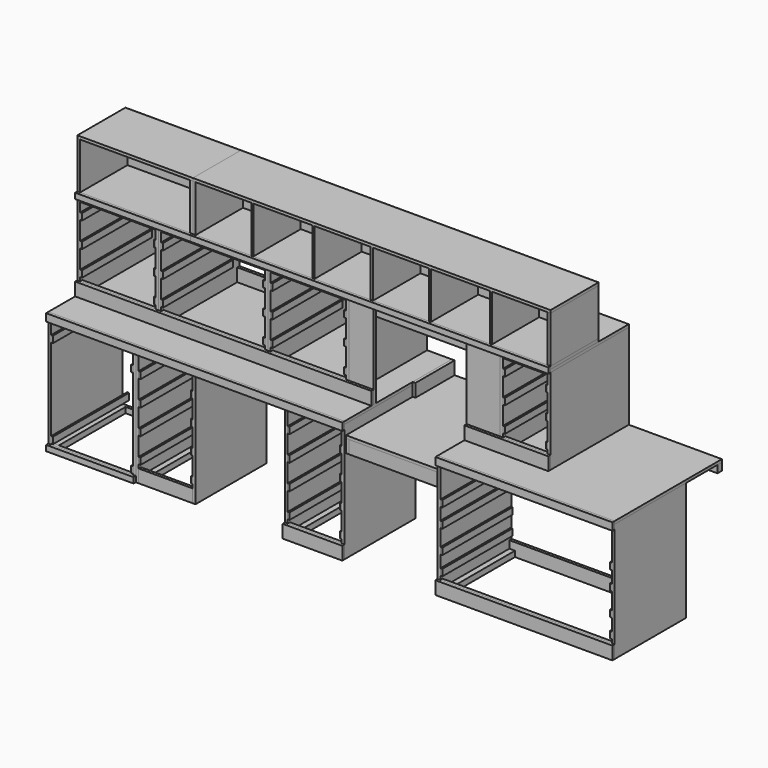
from build123d import *

# Parameters (mm, degrees)
F0_W      = 19.05
F0_H      = 606.425
F1_DEPTH  = 809.625
F2_W      = 19.05
F2_H      = 606.425
F3_DEPTH  = 809.625
F4_W      = 19.05
F4_H      = 139.7
F5_DEPTH  = 1168.4
F4_H_2    = 88.9
F4_W_2    = 88.9
F4_H_3    = 19.05
F6_W      = 139.7
F6_H      = 19.05
F7_DEPTH  = 368.3
F6_W_2    = 19.05
F6_H_2    = 88.9
F8_W      = 139.7
F8_H      = 19.05
F9_DEPTH  = 558.8
F8_W_2    = 19.05
F8_H_2    = 38.1
F10_W     = 19.05
F10_H     = 63.5
F11_DEPTH = 1168.4
F12_W     = 1206.5
F12_H     = 914.4
F13_DEPTH = 19.05
F12_W_2   = 2019.3
F14_W     = 38.1
F14_H     = 50.8
F15_DEPTH = 1206.5
F16_W     = 38.1
F16_H     = 50.8
F17_DEPTH = 2019.3
F19_W     = 635
F19_H     = 901.7
F20_DEPTH = 19.05
F21_W     = 19.05
F21_H     = 593.725
F22_DEPTH = 88.9
F23_W     = 596.9
F23_H     = 19.05
F24_DEPTH = 88.9
F25_R     = 50.8
F26_DEPTH = 19.05
F27_W     = 19.05
F27_H     = 333.375
F28_DEPTH = 88.9
F29_W     = 139.7
F29_H     = 19.05
F30_DEPTH = 368.3
F29_W_2   = 19.05
F29_H_2   = 88.9
F31_W     = 19.05
F31_H     = 666.75
F32_DEPTH = 584.2
F33_W     = 19.05
F33_H     = 666.75
F34_DEPTH = 584.2
F35_W     = 19.05
F35_H     = 139.7
F36_DEPTH = 514.35
F35_W_2   = 139.7
F35_H_2   = 19.05
F35_H_3   = 88.9
F37_W     = 19.05
F37_H     = 139.7
F38_DEPTH = 708.025
F37_W_2   = 139.7
F37_H_2   = 19.05
F37_H_3   = 88.9
F39_W     = 139.7
F39_H     = 19.05
F40_DEPTH = 514.35
F39_W_2   = 19.05
F39_H_2   = 88.9
F39_H_3   = 139.7
F41_W     = 139.7
F41_H     = 19.05
F42_DEPTH = 304.8
F41_W_2   = 19.05
F41_H_2   = 139.7
F41_H_3   = 88.9
F43_W     = 168.275
F43_H     = 19.05
F44_DEPTH = 584.2
F43_W_2   = 228.6
F45_W     = 19.05
F45_H     = 63.5
F46_DEPTH = 1031.875
F47_W     = 2019.3
F47_H     = 19.05
F48_DEPTH = 88.9
F47_W_2   = 571.5
F49_W     = 12.7
F49_H     = 44.958
F50_DEPTH = 596.9
F51_W     = 12.7
F51_H     = 44.958
F52_DEPTH = 647.7
F53_W     = 12.7
F53_H     = 44.958
F54_DEPTH = 596.9
F55_W     = 38.1
F55_H     = 38.1
F56_DEPTH = 568.325
F57_W     = 2019.3
F57_H     = 50.8
F58_DEPTH = 19.05
F57_W_2   = 1206.5
F57_W_3   = 596.9
F57_H_2   = 38.1
F57_W_4   = 406.4
F57_H_3   = 88.9
F59_W     = 1298.575
F59_H     = 666.75
F60_DEPTH = 19.05
F61_W     = 1927.225
F61_H     = 666.75
F62_DEPTH = 19.05
F63_W     = 2438.4
F63_H     = 403.225
F64_DEPTH = 19.05
F65_W     = 19.05
F65_H     = 403.225
F66_DEPTH = 317.5
F65_W_2   = 12.7
F67_W     = 2438.4
F67_H     = 403.225
F68_DEPTH = 19.05
F69_W     = 787.4
F69_H     = 403.225
F70_DEPTH = 19.05
F71_W     = 19.05
F71_H     = 403.225
F72_DEPTH = 317.5
F73_W     = 787.4
F73_H     = 403.225
F74_DEPTH = 19.05
F75_W     = 2438.4
F75_H     = 355.6
F76_DEPTH = 6.35
F77_W     = 787.4
F77_H     = 355.6
F78_DEPTH = 6.35
F79_W     = 787.4
F79_H     = 38.1
F81_DEPTH = 19.05
F80_W     = 2438.4
F80_H     = 38.1
F82_DEPTH = 19.05


with BuildPart() as f1:
    # F0 (on Top) → F1 (new body)
    with BuildSketch(Plane.XY):
        with Locations((-3851.275, 303.2125)):
            Rectangle(F0_W, F0_H)
    extrude(amount=-F1_DEPTH)


with BuildPart() as f1b:
    # F0 (on Top) → F1, piece 2 (new body)
    with BuildSketch(Plane.XY):
        with Locations((-3273.425, 303.2125)):
            Rectangle(F0_W, F0_H)
    extrude(amount=-F1_DEPTH)


with BuildPart() as f1c:
    # F0 (on Top) → F1, piece 3 (new body)
    with BuildSketch(Plane.XY):
        with Locations((-1196.975, 303.2125)):
            Rectangle(F0_W, F0_H)
    extrude(amount=-F1_DEPTH)


with BuildPart() as f1d:
    # F0 (on Top) → F1, piece 4 (new body)
    with BuildSketch(Plane.XY):
        with Locations((-1851.025, 303.2125)):
            Rectangle(F0_W, F0_H)
    extrude(amount=-F1_DEPTH)


with BuildPart() as f1e:
    # F0 (on Top) → F1, piece 5 (new body)
    with BuildSketch(Plane.XY):
        with Locations((-2238.375, 303.2125)):
            Rectangle(F0_W, F0_H)
    extrude(amount=-F1_DEPTH)


with BuildPart() as f1f:
    # F0 (on Top) → F1, piece 6 (new body)
    with BuildSketch(Plane.XY):
        with Locations((-9.525, 303.2125)):
            Rectangle(F0_W, F0_H)
    extrude(amount=-F1_DEPTH)


with BuildPart() as f3:
    # F2 (on Top) → F3 (new body, through all)
    with BuildSketch(Plane.XY):
        with Locations((-2867.025, 303.2125)):
            Rectangle(F2_W, F2_H)
    extrude(amount=-F3_DEPTH)


with BuildPart() as f3b:
    # F2 (on Top) → F3, piece 2 (new body, through all)
    with BuildSketch(Plane.XY):
        with Locations((-3254.375, 303.2125)):
            Rectangle(F2_W, F2_H)
    extrude(amount=-F3_DEPTH)


with BuildPart() as f5:
    # F4 (on face) → F5 (new body, through all)
    with BuildSketch(Plane(origin=(-19.05, 0, 0), x_dir=(0, -1, 0), z_dir=(-1, 0, 0))):
        with Locations((-596.9, -69.85)):
            Rectangle(F4_W, F4_H)
    extrude(amount=F5_DEPTH)


with BuildPart() as f5b:
    # F4 (on face) → F5, piece 2 (new body, through all)
    with BuildSketch(Plane(origin=(-19.05, 0, 0), x_dir=(0, -1, 0), z_dir=(-1, 0, 0))):
        with Locations((-596.9, -765.175)):
            Rectangle(F4_W, F4_H_2)
    extrude(amount=F5_DEPTH)


with BuildPart() as f5c:
    # F4 (on face) → F5, piece 3 (new body, through all)
    with BuildSketch(Plane(origin=(-19.05, 0, 0), x_dir=(0, -1, 0), z_dir=(-1, 0, 0))):
        with Locations((-44.45, -9.525)):
            Rectangle(F4_W_2, F4_H_3)
    extrude(amount=F5_DEPTH)


with BuildPart() as f5d:
    # F4 (on face) → F5, piece 4 (new body, through all)
    with BuildSketch(Plane(origin=(-19.05, 0, 0), x_dir=(0, -1, 0), z_dir=(-1, 0, 0))):
        with Locations((-9.525, -765.175)):
            Rectangle(F4_W, F4_H_2)
    extrude(amount=F5_DEPTH)


with BuildPart() as f7:
    # F6 (on face) → F7 (new body, through all)
    with BuildSketch(Plane(origin=(-1860.55, 0, 0), x_dir=(0, -1, 0), z_dir=(-1, 0, 0))):
        with Locations((-536.575, -9.525)):
            Rectangle(F6_W, F6_H)
    extrude(amount=F7_DEPTH)


with BuildPart() as f7b:
    # F6 (on face) → F7, piece 2 (new body, through all)
    with BuildSketch(Plane(origin=(-1860.55, 0, 0), x_dir=(0, -1, 0), z_dir=(-1, 0, 0))):
        with Locations((-596.9, -765.175)):
            Rectangle(F6_W_2, F6_H_2)
    extrude(amount=F7_DEPTH)


with BuildPart() as f7c:
    # F6 (on face) → F7, piece 3 (new body, through all)
    with BuildSketch(Plane(origin=(-1860.55, 0, 0), x_dir=(0, -1, 0), z_dir=(-1, 0, 0))):
        with Locations((-69.85, -9.525)):
            Rectangle(F6_W, F6_H)
    extrude(amount=F7_DEPTH)


with BuildPart() as f7d:
    # F6 (on face) → F7, piece 4 (new body, through all)
    with BuildSketch(Plane(origin=(-1860.55, 0, 0), x_dir=(0, -1, 0), z_dir=(-1, 0, 0))):
        with Locations((-9.525, -765.175)):
            Rectangle(F6_W_2, F6_H_2)
    extrude(amount=F7_DEPTH)


with BuildPart() as f9:
    # F8 (on face) → F9 (new body, through all)
    with BuildSketch(Plane(origin=(-3282.95, 0, 0), x_dir=(0, -1, 0), z_dir=(-1, 0, 0))):
        with Locations((-536.575, -9.525)):
            Rectangle(F8_W, F8_H)
    extrude(amount=F9_DEPTH)


with BuildPart() as f9b:
    # F8 (on face) → F9, piece 2 (new body, through all)
    with BuildSketch(Plane(origin=(-3282.95, 0, 0), x_dir=(0, -1, 0), z_dir=(-1, 0, 0))):
        with Locations((-596.9, -790.575)):
            Rectangle(F8_W_2, F8_H_2)
    extrude(amount=F9_DEPTH)


with BuildPart() as f9c:
    # F8 (on face) → F9, piece 3 (new body, through all)
    with BuildSketch(Plane(origin=(-3282.95, 0, 0), x_dir=(0, -1, 0), z_dir=(-1, 0, 0))):
        with Locations((-69.85, -9.525)):
            Rectangle(F8_W, F8_H)
    extrude(amount=F9_DEPTH)


with BuildPart() as f9d:
    # F8 (on face) → F9, piece 4 (new body, through all)
    with BuildSketch(Plane(origin=(-3282.95, 0, 0), x_dir=(0, -1, 0), z_dir=(-1, 0, 0))):
        with Locations((-9.525, -790.575)):
            Rectangle(F8_W_2, F8_H_2)
    extrude(amount=F9_DEPTH)


with BuildPart() as f11:
    # F10 (on face) → F11 (new body, through all)
    with BuildSketch(Plane(origin=(-19.05, 0, 0), x_dir=(0, -1, 0), z_dir=(-1, 0, 0))):
        with Locations((-374.65, -31.75)):
            Rectangle(F10_W, F10_H)
    extrude(amount=F11_DEPTH)


with BuildPart() as f11b:
    # F10 (on face) → F11, piece 2 (new body, through all)
    with BuildSketch(Plane(origin=(-19.05, 0, 0), x_dir=(0, -1, 0), z_dir=(-1, 0, 0))):
        with Locations((-98.425, -31.75)):
            Rectangle(F10_W, F10_H)
    extrude(amount=F11_DEPTH)


with BuildPart() as f13:
    # F12 (on Top) → F13 (new body)
    with BuildSketch(Plane.XY):
        with Locations((-603.25, 457.2)):
            Rectangle(F12_W, F12_H)
    extrude(amount=F13_DEPTH)


with BuildPart() as f13b:
    # F12 (on Top) → F13, piece 2 (new body)
    with BuildSketch(Plane.XY):
        with Locations((-2851.15, 457.2)):
            Rectangle(F12_W_2, F12_H)
    extrude(amount=F13_DEPTH)


with BuildPart() as f15:
    # F14 (on face) → F15 (new body, through all)
    with BuildSketch(Plane.YZ):
        with Locations((895.35, -25.4)):
            Rectangle(F14_W, F14_H)
    extrude(amount=-F15_DEPTH)


with BuildPart() as f17:
    # F16 (on face) → F17 (new body, through all)
    with BuildSketch(Plane.YZ.offset(-1841.5)):
        with Locations((895.35, -25.4)):
            Rectangle(F16_W, F16_H)
    extrude(amount=-F17_DEPTH)


with BuildPart() as f20:
    # F19 (on offset) → F20 (new body)
    with BuildSketch(Plane.XY.offset(-69.85)):
        with Locations((-1524, 463.55)):
            Rectangle(F19_W, F19_H)
    extrude(amount=-F20_DEPTH)

    # F25 (on face) → F26 (cut, through all)
    with BuildSketch(Plane.XY.offset(-69.85)):
        with Locations((-1524, 825.5)):
            Circle(F25_R)
    extrude(amount=-F26_DEPTH, mode=Mode.SUBTRACT)


with BuildPart() as f22:
    # F21 (on face) → F22 (new body)
    with BuildSketch(Plane(origin=(0, 0, -88.9), x_dir=(1, 0, 0), z_dir=(0, 0, -1))):
        with Locations((-1831.975, -309.5625)):
            Rectangle(F21_W, F21_H)
    extrude(amount=F22_DEPTH)


with BuildPart() as f22b:
    # F21 (on face) → F22, piece 2 (new body)
    with BuildSketch(Plane(origin=(0, 0, -88.9), x_dir=(1, 0, 0), z_dir=(0, 0, -1))):
        with Locations((-1216.025, -309.5625)):
            Rectangle(F21_W, F21_H)
    extrude(amount=F22_DEPTH)


with BuildPart() as f24:
    # F23 (on face) → F24 (new body, through all)
    with BuildSketch(Plane(origin=(0, 0, -88.9), x_dir=(1, 0, 0), z_dir=(0, 0, -1))):
        with Locations((-1524, -22.225)):
            Rectangle(F23_W, F23_H)
    extrude(amount=F24_DEPTH)


with BuildPart() as f24b:
    # F23 (on face) → F24, piece 2 (new body, through all)
    with BuildSketch(Plane(origin=(0, 0, -88.9), x_dir=(1, 0, 0), z_dir=(0, 0, -1))):
        with Locations((-1524, -596.9)):
            Rectangle(F23_W, F23_H)
    extrude(amount=F24_DEPTH)


with BuildPart() as f28:
    # F27 (on face) → F28 (new body, through all)
    with BuildSketch(Plane.XY.offset(-69.85)):
        with Locations((-1831.975, 747.7125)):
            Rectangle(F27_W, F27_H)
    extrude(amount=F28_DEPTH)


with BuildPart() as f28b:
    # F27 (on face) → F28, piece 2 (new body, through all)
    with BuildSketch(Plane.XY.offset(-69.85)):
        with Locations((-1216.025, 747.7125)):
            Rectangle(F27_W, F27_H)
    extrude(amount=F28_DEPTH)


with BuildPart() as f30:
    # F29 (on face) → F30 (new body, through all)
    with BuildSketch(Plane(origin=(-2876.55, 0, 0), x_dir=(0, -1, 0), z_dir=(-1, 0, 0))):
        with Locations((-536.575, -9.525)):
            Rectangle(F29_W, F29_H)
    extrude(amount=F30_DEPTH)


with BuildPart() as f30b:
    # F29 (on face) → F30, piece 2 (new body, through all)
    with BuildSketch(Plane(origin=(-2876.55, 0, 0), x_dir=(0, -1, 0), z_dir=(-1, 0, 0))):
        with Locations((-596.9, -765.175)):
            Rectangle(F29_W_2, F29_H_2)
    extrude(amount=F30_DEPTH)


with BuildPart() as f30c:
    # F29 (on face) → F30, piece 3 (new body, through all)
    with BuildSketch(Plane(origin=(-2876.55, 0, 0), x_dir=(0, -1, 0), z_dir=(-1, 0, 0))):
        with Locations((-69.85, -9.525)):
            Rectangle(F29_W, F29_H)
    extrude(amount=F30_DEPTH)


with BuildPart() as f30d:
    # F29 (on face) → F30, piece 4 (new body, through all)
    with BuildSketch(Plane(origin=(-2876.55, 0, 0), x_dir=(0, -1, 0), z_dir=(-1, 0, 0))):
        with Locations((-9.525, -765.175)):
            Rectangle(F29_W_2, F29_H_2)
    extrude(amount=F30_DEPTH)


with BuildPart() as f32:
    # F31 (on face) → F32 (new body)
    with BuildSketch(Plane.XY.offset(19.05)):
        with Locations((-2019.3, 581.025)):
            Rectangle(F31_W, F31_H)
    extrude(amount=F32_DEPTH)


with BuildPart() as f32b:
    # F31 (on face) → F32, piece 2 (new body)
    with BuildSketch(Plane.XY.offset(19.05)):
        with Locations((-3851.275, 581.025)):
            Rectangle(F31_W, F31_H)
    extrude(amount=F32_DEPTH)


with BuildPart() as f32c:
    # F31 (on face) → F32, piece 3 (new body)
    with BuildSketch(Plane.XY.offset(19.05)):
        with Locations((-2552.7, 581.025)):
            Rectangle(F31_W, F31_H)
    extrude(amount=F32_DEPTH)


with BuildPart() as f32d:
    # F31 (on face) → F32, piece 4 (new body)
    with BuildSketch(Plane.XY.offset(19.05)):
        with Locations((-3317.875, 581.025)):
            Rectangle(F31_W, F31_H)
    extrude(amount=F32_DEPTH)


with BuildPart() as f32e:
    # F31 (on face) → F32, piece 5 (new body)
    with BuildSketch(Plane.XY.offset(19.05)):
        with Locations((-968.375, 581.025)):
            Rectangle(F31_W, F31_H)
    extrude(amount=F32_DEPTH)


with BuildPart() as f32f:
    # F31 (on face) → F32, piece 6 (new body)
    with BuildSketch(Plane.XY.offset(19.05)):
        with Locations((-644.525, 581.025)):
            Rectangle(F31_W, F31_H)
    extrude(amount=F32_DEPTH)


with BuildPart() as f34:
    # F33 (on face) → F34 (new body, through all)
    with BuildSketch(Plane.XY.offset(19.05)):
        with Locations((-3298.825, 581.025)):
            Rectangle(F33_W, F33_H)
    extrude(amount=F34_DEPTH)


with BuildPart() as f34b:
    # F33 (on face) → F34, piece 2 (new body, through all)
    with BuildSketch(Plane.XY.offset(19.05)):
        with Locations((-2571.75, 581.025)):
            Rectangle(F33_W, F33_H)
    extrude(amount=F34_DEPTH)


with BuildPart() as f36:
    # F35 (on face) → F36 (new body, through all)
    with BuildSketch(Plane.YZ.offset(-3841.75)):
        with Locations((904.875, 533.4)):
            Rectangle(F35_W, F35_H)
    extrude(amount=F36_DEPTH)


with BuildPart() as f36b:
    # F35 (on face) → F36, piece 2 (new body, through all)
    with BuildSketch(Plane.YZ.offset(-3841.75)):
        with Locations((317.5, 593.725)):
            Rectangle(F35_W_2, F35_H_2)
    extrude(amount=F36_DEPTH)


with BuildPart() as f36c:
    # F35 (on face) → F36, piece 3 (new body, through all)
    with BuildSketch(Plane.YZ.offset(-3841.75)):
        with Locations((257.175, 63.5)):
            Rectangle(F35_W, F35_H_3)
    extrude(amount=F36_DEPTH)


with BuildPart() as f36d:
    # F35 (on face) → F36, piece 4 (new body, through all)
    with BuildSketch(Plane.YZ.offset(-3841.75)):
        with Locations((904.875, 63.5)):
            Rectangle(F35_W, F35_H_3)
    extrude(amount=F36_DEPTH)


with BuildPart() as f38:
    # F37 (on face) → F38 (new body, through all)
    with BuildSketch(Plane.YZ.offset(-3289.3)):
        with Locations((904.875, 533.4)):
            Rectangle(F37_W, F37_H)
    extrude(amount=F38_DEPTH)


with BuildPart() as f38b:
    # F37 (on face) → F38, piece 2 (new body, through all)
    with BuildSketch(Plane.YZ.offset(-3289.3)):
        with Locations((317.5, 593.725)):
            Rectangle(F37_W_2, F37_H_2)
    extrude(amount=F38_DEPTH)


with BuildPart() as f38c:
    # F37 (on face) → F38, piece 3 (new body, through all)
    with BuildSketch(Plane.YZ.offset(-3289.3)):
        with Locations((257.175, 63.5)):
            Rectangle(F37_W, F37_H_3)
    extrude(amount=F38_DEPTH)


with BuildPart() as f38d:
    # F37 (on face) → F38, piece 4 (new body, through all)
    with BuildSketch(Plane.YZ.offset(-3289.3)):
        with Locations((904.875, 63.5)):
            Rectangle(F37_W, F37_H_3)
    extrude(amount=F38_DEPTH)


with BuildPart() as f40:
    # F39 (on face) → F40 (new body, through all)
    with BuildSketch(Plane.YZ.offset(-2543.175)):
        with Locations((317.5, 593.725)):
            Rectangle(F39_W, F39_H)
    extrude(amount=F40_DEPTH)


with BuildPart() as f40b:
    # F39 (on face) → F40, piece 2 (new body, through all)
    with BuildSketch(Plane.YZ.offset(-2543.175)):
        with Locations((257.175, 63.5)):
            Rectangle(F39_W_2, F39_H_2)
    extrude(amount=F40_DEPTH)


with BuildPart() as f40c:
    # F39 (on face) → F40, piece 3 (new body, through all)
    with BuildSketch(Plane.YZ.offset(-2543.175)):
        with Locations((904.875, 533.4)):
            Rectangle(F39_W_2, F39_H_3)
    extrude(amount=F40_DEPTH)


with BuildPart() as f40d:
    # F39 (on face) → F40, piece 4 (new body, through all)
    with BuildSketch(Plane.YZ.offset(-2543.175)):
        with Locations((904.875, 63.5)):
            Rectangle(F39_W_2, F39_H_2)
    extrude(amount=F40_DEPTH)


with BuildPart() as f42:
    # F41 (on face) → F42 (new body, through all)
    with BuildSketch(Plane.YZ.offset(-958.85)):
        with Locations((317.5, 593.725)):
            Rectangle(F41_W, F41_H)
    extrude(amount=F42_DEPTH)


with BuildPart() as f42b:
    # F41 (on face) → F42, piece 2 (new body, through all)
    with BuildSketch(Plane.YZ.offset(-958.85)):
        with Locations((904.875, 533.4)):
            Rectangle(F41_W_2, F41_H_2)
    extrude(amount=F42_DEPTH)


with BuildPart() as f42c:
    # F41 (on face) → F42, piece 3 (new body, through all)
    with BuildSketch(Plane.YZ.offset(-958.85)):
        with Locations((904.875, 63.5)):
            Rectangle(F41_W_2, F41_H_3)
    extrude(amount=F42_DEPTH)


with BuildPart() as f42d:
    # F41 (on face) → F42, piece 4 (new body, through all)
    with BuildSketch(Plane.YZ.offset(-958.85)):
        with Locations((257.175, 63.5)):
            Rectangle(F41_W_2, F41_H_3)
    extrude(amount=F42_DEPTH)


with BuildPart() as f44:
    # F43 (on face) → F44 (new body, through all)
    with BuildSketch(Plane.XY.offset(19.05)):
        with Locations((-1925.6375, 257.175)):
            Rectangle(F43_W, F43_H)
    extrude(amount=F44_DEPTH)


with BuildPart() as f44b:
    # F43 (on face) → F44, piece 2 (new body, through all)
    with BuildSketch(Plane.XY.offset(19.05)):
        with Locations((-1092.2, 257.175)):
            Rectangle(F43_W_2, F43_H)
    extrude(amount=F44_DEPTH)


with BuildPart() as f46:
    # F45 (on face) → F46 (new body, through all)
    with BuildSketch(Plane.YZ.offset(-2009.775)):
        with Locations((276.225, 571.5)):
            Rectangle(F45_W, F45_H)
    extrude(amount=F46_DEPTH)


with BuildPart() as f46b:
    # F45 (on face) → F46, piece 2 (new body, through all)
    with BuildSketch(Plane.YZ.offset(-2009.775)):
        with Locations((752.475, 571.5)):
            Rectangle(F45_W, F45_H)
    extrude(amount=F46_DEPTH)


with BuildPart() as f48:
    # F47 (on face) → F48 (new body, through all)
    with BuildSketch(Plane.XY.offset(19.05)):
        with Locations((-2851.15, 238.125)):
            Rectangle(F47_W, F47_H)
    extrude(amount=F48_DEPTH)


with BuildPart() as f48b:
    # F47 (on face) → F48, piece 2 (new body, through all)
    with BuildSketch(Plane.XY.offset(19.05)):
        with Locations((-920.75, 238.125)):
            Rectangle(F47_W_2, F47_H)
    extrude(amount=F48_DEPTH)


with BuildPart() as f50:
    # F49 (on face) → F50 (new body)
    with BuildSketch(Plane.XZ):
        with Locations((-2222.5, -158.496)):
            Rectangle(F49_W, F49_H)
    extrude(amount=-F50_DEPTH)


with BuildPart() as f50b:
    # F49 (on face) → F50, piece 2 (new body)
    with BuildSketch(Plane.XZ):
        with Locations((-2222.5, -329.946)):
            Rectangle(F49_W, F49_H)
    extrude(amount=-F50_DEPTH)


with BuildPart() as f50c:
    # F49 (on face) → F50, piece 3 (new body)
    with BuildSketch(Plane.XZ):
        with Locations((-2222.5, -501.396)):
            Rectangle(F49_W, F49_H)
    extrude(amount=-F50_DEPTH)


with BuildPart() as f50d:
    # F49 (on face) → F50, piece 4 (new body)
    with BuildSketch(Plane.XZ):
        with Locations((-2222.5, -672.846)):
            Rectangle(F49_W, F49_H)
    extrude(amount=-F50_DEPTH)


with BuildPart() as f50e:
    # F49 (on face) → F50, piece 5 (new body)
    with BuildSketch(Plane.XZ):
        with Locations((-1866.9, -158.496)):
            Rectangle(F49_W, F49_H)
    extrude(amount=-F50_DEPTH)


with BuildPart() as f50f:
    # F49 (on face) → F50, piece 6 (new body)
    with BuildSketch(Plane.XZ):
        with Locations((-1866.9, -672.846)):
            Rectangle(F49_W, F49_H)
    extrude(amount=-F50_DEPTH)


with BuildPart() as f50g:
    # F49 (on face) → F50, piece 7 (new body)
    with BuildSketch(Plane.XZ):
        with Locations((-1866.9, -329.946)):
            Rectangle(F49_W, F49_H)
    extrude(amount=-F50_DEPTH)


with BuildPart() as f50h:
    # F49 (on face) → F50, piece 8 (new body)
    with BuildSketch(Plane.XZ):
        with Locations((-1866.9, -501.396)):
            Rectangle(F49_W, F49_H)
    extrude(amount=-F50_DEPTH)


with BuildPart() as f50i:
    # F49 (on face) → F50, piece 9 (new body)
    with BuildSketch(Plane.XZ):
        with Locations((-3835.4, -136.271)):
            Rectangle(F49_W, F49_H)
    extrude(amount=-F50_DEPTH)


with BuildPart() as f50j:
    # F49 (on face) → F50, piece 10 (new body)
    with BuildSketch(Plane.XZ):
        with Locations((-3289.3, -136.271)):
            Rectangle(F49_W, F49_H)
    extrude(amount=-F50_DEPTH)


with BuildPart() as f50k:
    # F49 (on face) → F50, piece 11 (new body)
    with BuildSketch(Plane.XZ):
        with Locations((-3238.5, -158.496)):
            Rectangle(F49_W, F49_H)
    extrude(amount=-F50_DEPTH)


with BuildPart() as f50l:
    # F49 (on face) → F50, piece 12 (new body)
    with BuildSketch(Plane.XZ):
        with Locations((-3238.5, -329.946)):
            Rectangle(F49_W, F49_H)
    extrude(amount=-F50_DEPTH)


with BuildPart() as f50m:
    # F49 (on face) → F50, piece 13 (new body)
    with BuildSketch(Plane.XZ):
        with Locations((-3238.5, -501.396)):
            Rectangle(F49_W, F49_H)
    extrude(amount=-F50_DEPTH)


with BuildPart() as f50n:
    # F49 (on face) → F50, piece 14 (new body)
    with BuildSketch(Plane.XZ):
        with Locations((-3238.5, -672.846)):
            Rectangle(F49_W, F49_H)
    extrude(amount=-F50_DEPTH)


with BuildPart() as f50o:
    # F49 (on face) → F50, piece 15 (new body)
    with BuildSketch(Plane.XZ):
        with Locations((-2882.9, -158.496)):
            Rectangle(F49_W, F49_H)
    extrude(amount=-F50_DEPTH)


with BuildPart() as f50p:
    # F49 (on face) → F50, piece 16 (new body)
    with BuildSketch(Plane.XZ):
        with Locations((-2882.9, -329.946)):
            Rectangle(F49_W, F49_H)
    extrude(amount=-F50_DEPTH)


with BuildPart() as f50q:
    # F49 (on face) → F50, piece 17 (new body)
    with BuildSketch(Plane.XZ):
        with Locations((-2882.9, -672.846)):
            Rectangle(F49_W, F49_H)
    extrude(amount=-F50_DEPTH)


with BuildPart() as f50r:
    # F49 (on face) → F50, piece 18 (new body)
    with BuildSketch(Plane.XZ):
        with Locations((-2882.9, -501.396)):
            Rectangle(F49_W, F49_H)
    extrude(amount=-F50_DEPTH)


with BuildPart() as f50s:
    # F49 (on face) → F50, piece 19 (new body)
    with BuildSketch(Plane.XZ):
        with Locations((-1181.1, -259.588)):
            Rectangle(F49_W, F49_H)
    extrude(amount=-F50_DEPTH)


with BuildPart() as f50t:
    # F49 (on face) → F50, piece 20 (new body)
    with BuildSketch(Plane.XZ):
        with Locations((-1181.1, -387.096)):
            Rectangle(F49_W, F49_H)
    extrude(amount=-F50_DEPTH)


with BuildPart() as f50u:
    # F49 (on face) → F50, piece 21 (new body)
    with BuildSketch(Plane.XZ):
        with Locations((-1181.1, -545.338)):
            Rectangle(F49_W, F49_H)
    extrude(amount=-F50_DEPTH)


with BuildPart() as f50v:
    # F49 (on face) → F50, piece 22 (new body)
    with BuildSketch(Plane.XZ):
        with Locations((-1181.1, -672.846)):
            Rectangle(F49_W, F49_H)
    extrude(amount=-F50_DEPTH)


with BuildPart() as f50w:
    # F49 (on face) → F50, piece 23 (new body)
    with BuildSketch(Plane.XZ):
        with Locations((-25.4, -672.846)):
            Rectangle(F49_W, F49_H)
    extrude(amount=-F50_DEPTH)


with BuildPart() as f50x:
    # F49 (on face) → F50, piece 24 (new body)
    with BuildSketch(Plane.XZ):
        with Locations((-25.4, -387.096)):
            Rectangle(F49_W, F49_H)
    extrude(amount=-F50_DEPTH)


with BuildPart() as f50y:
    # F49 (on face) → F50, piece 25 (new body)
    with BuildSketch(Plane.XZ):
        with Locations((-25.4, -545.338)):
            Rectangle(F49_W, F49_H)
    extrude(amount=-F50_DEPTH)


with BuildPart() as f50z:
    # F49 (on face) → F50, piece 26 (new body)
    with BuildSketch(Plane.XZ):
        with Locations((-25.4, -259.588)):
            Rectangle(F49_W, F49_H)
    extrude(amount=-F50_DEPTH)


with BuildPart() as f52:
    # F51 (on face) → F52 (new body)
    with BuildSketch(Plane.XZ):
        with Locations((-3835.4, -742.696)):
            Rectangle(F51_W, F51_H)
    extrude(amount=-F52_DEPTH)


with BuildPart() as f52b:
    # F51 (on face) → F52, piece 2 (new body)
    with BuildSketch(Plane.XZ):
        with Locations((-3289.3, -742.696)):
            Rectangle(F51_W, F51_H)
    extrude(amount=-F52_DEPTH)


with BuildPart() as f54:
    # F53 (on face) → F54 (new body)
    with BuildSketch(Plane.XZ.offset(-247.65)):
        with Locations((-3835.4, 498.729)):
            Rectangle(F53_W, F53_H)
    extrude(amount=-F54_DEPTH)


with BuildPart() as f54b:
    # F53 (on face) → F54, piece 2 (new body)
    with BuildSketch(Plane.XZ.offset(-247.65)):
        with Locations((-3282.95, 498.729)):
            Rectangle(F53_W, F53_H)
    extrude(amount=-F54_DEPTH)


with BuildPart() as f54c:
    # F53 (on face) → F54, piece 3 (new body)
    with BuildSketch(Plane.XZ.offset(-247.65)):
        with Locations((-3835.4, 327.279)):
            Rectangle(F53_W, F53_H)
    extrude(amount=-F54_DEPTH)


with BuildPart() as f54d:
    # F53 (on face) → F54, piece 4 (new body)
    with BuildSketch(Plane.XZ.offset(-247.65)):
        with Locations((-3835.4, 155.829)):
            Rectangle(F53_W, F53_H)
    extrude(amount=-F54_DEPTH)


with BuildPart() as f54e:
    # F53 (on face) → F54, piece 5 (new body)
    with BuildSketch(Plane.XZ.offset(-247.65)):
        with Locations((-3282.95, 155.829)):
            Rectangle(F53_W, F53_H)
    extrude(amount=-F54_DEPTH)


with BuildPart() as f54f:
    # F53 (on face) → F54, piece 6 (new body)
    with BuildSketch(Plane.XZ.offset(-247.65)):
        with Locations((-3282.95, 327.279)):
            Rectangle(F53_W, F53_H)
    extrude(amount=-F54_DEPTH)


with BuildPart() as f54g:
    # F53 (on face) → F54, piece 7 (new body)
    with BuildSketch(Plane.XZ.offset(-247.65)):
        with Locations((-2536.825, 155.829)):
            Rectangle(F53_W, F53_H)
    extrude(amount=-F54_DEPTH)


with BuildPart() as f54h:
    # F53 (on face) → F54, piece 8 (new body)
    with BuildSketch(Plane.XZ.offset(-247.65)):
        with Locations((-2536.825, 498.729)):
            Rectangle(F53_W, F53_H)
    extrude(amount=-F54_DEPTH)


with BuildPart() as f54i:
    # F53 (on face) → F54, piece 9 (new body)
    with BuildSketch(Plane.XZ.offset(-247.65)):
        with Locations((-2536.825, 327.279)):
            Rectangle(F53_W, F53_H)
    extrude(amount=-F54_DEPTH)


with BuildPart() as f54j:
    # F53 (on face) → F54, piece 10 (new body)
    with BuildSketch(Plane.XZ.offset(-247.65)):
        with Locations((-952.5, 155.829)):
            Rectangle(F53_W, F53_H)
    extrude(amount=-F54_DEPTH)


with BuildPart() as f54k:
    # F53 (on face) → F54, piece 11 (new body)
    with BuildSketch(Plane.XZ.offset(-247.65)):
        with Locations((-952.5, 327.279)):
            Rectangle(F53_W, F53_H)
    extrude(amount=-F54_DEPTH)


with BuildPart() as f54l:
    # F53 (on face) → F54, piece 12 (new body)
    with BuildSketch(Plane.XZ.offset(-247.65)):
        with Locations((-952.5, 498.729)):
            Rectangle(F53_W, F53_H)
    extrude(amount=-F54_DEPTH)


with BuildPart() as f54m:
    # F53 (on face) → F54, piece 13 (new body)
    with BuildSketch(Plane.XZ.offset(-247.65)):
        with Locations((-3333.7499999992, 498.729)):
            Rectangle(F53_W, F53_H)
    extrude(amount=-F54_DEPTH)


with BuildPart() as f54n:
    # F53 (on face) → F54, piece 14 (new body)
    with BuildSketch(Plane.XZ.offset(-247.65)):
        with Locations((-3333.7499999992, 155.829)):
            Rectangle(F53_W, F53_H)
    extrude(amount=-F54_DEPTH)


with BuildPart() as f54o:
    # F53 (on face) → F54, piece 15 (new body)
    with BuildSketch(Plane.XZ.offset(-247.65)):
        with Locations((-3333.7499999992, 327.279)):
            Rectangle(F53_W, F53_H)
    extrude(amount=-F54_DEPTH)


with BuildPart() as f54p:
    # F53 (on face) → F54, piece 16 (new body)
    with BuildSketch(Plane.XZ.offset(-247.65)):
        with Locations((-2587.6249999992, 155.829)):
            Rectangle(F53_W, F53_H)
    extrude(amount=-F54_DEPTH)


with BuildPart() as f54q:
    # F53 (on face) → F54, piece 17 (new body)
    with BuildSketch(Plane.XZ.offset(-247.65)):
        with Locations((-2587.6249999992, 327.279)):
            Rectangle(F53_W, F53_H)
    extrude(amount=-F54_DEPTH)


with BuildPart() as f54r:
    # F53 (on face) → F54, piece 18 (new body)
    with BuildSketch(Plane.XZ.offset(-247.65)):
        with Locations((-2587.6249999992, 498.729)):
            Rectangle(F53_W, F53_H)
    extrude(amount=-F54_DEPTH)


with BuildPart() as f54s:
    # F53 (on face) → F54, piece 19 (new body)
    with BuildSketch(Plane.XZ.offset(-247.65)):
        with Locations((-2035.175, 327.279)):
            Rectangle(F53_W, F53_H)
    extrude(amount=-F54_DEPTH)


with BuildPart() as f54t:
    # F53 (on face) → F54, piece 20 (new body)
    with BuildSketch(Plane.XZ.offset(-247.65)):
        with Locations((-2035.175, 498.729)):
            Rectangle(F53_W, F53_H)
    extrude(amount=-F54_DEPTH)


with BuildPart() as f54u:
    # F53 (on face) → F54, piece 21 (new body)
    with BuildSketch(Plane.XZ.offset(-247.65)):
        with Locations((-2035.175, 155.829)):
            Rectangle(F53_W, F53_H)
    extrude(amount=-F54_DEPTH)


with BuildPart() as f54v:
    # F53 (on face) → F54, piece 22 (new body)
    with BuildSketch(Plane.XZ.offset(-247.65)):
        with Locations((-660.4, 155.829)):
            Rectangle(F53_W, F53_H)
    extrude(amount=-F54_DEPTH)


with BuildPart() as f54w:
    # F53 (on face) → F54, piece 23 (new body)
    with BuildSketch(Plane.XZ.offset(-247.65)):
        with Locations((-660.4, 498.729)):
            Rectangle(F53_W, F53_H)
    extrude(amount=-F54_DEPTH)


with BuildPart() as f54x:
    # F53 (on face) → F54, piece 24 (new body)
    with BuildSketch(Plane.XZ.offset(-247.65)):
        with Locations((-660.4, 327.279)):
            Rectangle(F53_W, F53_H)
    extrude(amount=-F54_DEPTH)


with BuildPart() as f56:
    # F55 (on face) → F56 (new body, through all)
    with BuildSketch(Plane.XZ.offset(-587.375)):
        with Locations((-3822.7, -790.575)):
            Rectangle(F55_W, F55_H)
    extrude(amount=F56_DEPTH)


with BuildPart() as f56b:
    # F55 (on face) → F56, piece 2 (new body, through all)
    with BuildSketch(Plane.XZ.offset(-587.375)):
        with Locations((-3302, -790.575)):
            Rectangle(F55_W, F55_H)
    extrude(amount=F56_DEPTH)


with BuildPart() as f56c:
    # F55 (on face) → F56, piece 3 (new body, through all)
    with BuildSketch(Plane.XZ.offset(-587.375)):
        with Locations((-3225.8, -790.575)):
            Rectangle(F55_W, F55_H)
    extrude(amount=F56_DEPTH)


with BuildPart() as f56d:
    # F55 (on face) → F56, piece 4 (new body, through all)
    with BuildSketch(Plane.XZ.offset(-587.375)):
        with Locations((-2895.6, -790.575)):
            Rectangle(F55_W, F55_H)
    extrude(amount=F56_DEPTH)


with BuildPart() as f56e:
    # F55 (on face) → F56, piece 5 (new body, through all)
    with BuildSketch(Plane.XZ.offset(-587.375)):
        with Locations((-1879.6, -790.575)):
            Rectangle(F55_W, F55_H)
    extrude(amount=F56_DEPTH)


with BuildPart() as f56f:
    # F55 (on face) → F56, piece 6 (new body, through all)
    with BuildSketch(Plane.XZ.offset(-587.375)):
        with Locations((-2209.8, -790.575)):
            Rectangle(F55_W, F55_H)
    extrude(amount=F56_DEPTH)


with BuildPart() as f56g:
    # F55 (on face) → F56, piece 7 (new body, through all)
    with BuildSketch(Plane.XZ.offset(-587.375)):
        with Locations((-1168.4, -790.575)):
            Rectangle(F55_W, F55_H)
    extrude(amount=F56_DEPTH)


with BuildPart() as f56h:
    # F55 (on face) → F56, piece 8 (new body, through all)
    with BuildSketch(Plane.XZ.offset(-587.375)):
        with Locations((-38.1, -790.575)):
            Rectangle(F55_W, F55_H)
    extrude(amount=F56_DEPTH)


with BuildPart() as f58:
    # F57 (on face) → F58 (new body)
    with BuildSketch(Plane.XZ):
        with Locations((-2851.15, -6.35)):
            Rectangle(F57_W, F57_H)
    extrude(amount=F58_DEPTH)


with BuildPart() as f58b:
    # F57 (on face) → F58, piece 2 (new body)
    with BuildSketch(Plane.XZ):
        with Locations((-603.25, -6.35)):
            Rectangle(F57_W_2, F57_H)
    extrude(amount=F58_DEPTH)


with BuildPart() as f58c:
    # F57 (on face) → F58, piece 3 (new body)
    with BuildSketch(Plane.XZ):
        with Locations((-3562.35, -790.575)):
            Rectangle(F57_W_3, F57_H_2)
    extrude(amount=F58_DEPTH)


with BuildPart() as f58d:
    # F57 (on face) → F58, piece 4 (new body)
    with BuildSketch(Plane.XZ):
        with Locations((-2044.7, -765.175)):
            Rectangle(F57_W_4, F57_H_3)
    extrude(amount=F58_DEPTH)


with BuildPart() as f58e:
    # F57 (on face) → F58, piece 5 (new body)
    with BuildSketch(Plane.XZ):
        with Locations((-603.25, -765.175)):
            Rectangle(F57_W_2, F57_H_3)
    extrude(amount=F58_DEPTH)


with BuildPart() as f60:
    # F59 (on face) → F60 (new body)
    with BuildSketch(Plane.XY.offset(603.25)):
        with Locations((-3211.5125, 581.025)):
            Rectangle(F59_W, F59_H)
    extrude(amount=F60_DEPTH)


with BuildPart() as f62:
    # F61 (on face) → F62 (new body, through all)
    with BuildSketch(Plane.XY.offset(603.25)):
        with Locations((-1598.6125, 581.025)):
            Rectangle(F61_W, F61_H)
    extrude(amount=F62_DEPTH)


with BuildPart() as f64:
    # F63 (on face) → F64 (new body)
    with BuildSketch(Plane.XY.offset(622.3)):
        with Locations((-1854.2, 449.2625)):
            Rectangle(F63_W, F63_H)
    extrude(amount=F64_DEPTH)


with BuildPart() as f66:
    # F65 (on face) → F66 (new body)
    with BuildSketch(Plane.XY.offset(641.35)):
        with Locations((-3063.875, 449.2625)):
            Rectangle(F65_W, F65_H)
    extrude(amount=F66_DEPTH)


with BuildPart() as f66b:
    # F65 (on face) → F66, piece 2 (new body)
    with BuildSketch(Plane.XY.offset(641.35)):
        with Locations((-644.525, 449.2625)):
            Rectangle(F65_W, F65_H)
    extrude(amount=F66_DEPTH)


with BuildPart() as f66c:
    # F65 (on face) → F66, piece 3 (new body)
    with BuildSketch(Plane.XY.offset(641.35)):
        with Locations((-1854.2, 449.2625)):
            Rectangle(F65_W, F65_H)
    extrude(amount=F66_DEPTH)


with BuildPart() as f66d:
    # F65 (on face) → F66, piece 4 (new body)
    with BuildSketch(Plane.XY.offset(641.35)):
        with Locations((-2667, 449.2625)):
            Rectangle(F65_W_2, F65_H)
    extrude(amount=F66_DEPTH)


with BuildPart() as f66e:
    # F65 (on face) → F66, piece 5 (new body)
    with BuildSketch(Plane.XY.offset(641.35)):
        with Locations((-2251.075, 449.2625)):
            Rectangle(F65_W_2, F65_H)
    extrude(amount=F66_DEPTH)


with BuildPart() as f66f:
    # F65 (on face) → F66, piece 6 (new body)
    with BuildSketch(Plane.XY.offset(641.35)):
        with Locations((-1041.4, 449.2625)):
            Rectangle(F65_W_2, F65_H)
    extrude(amount=F66_DEPTH)


with BuildPart() as f66g:
    # F65 (on face) → F66, piece 7 (new body)
    with BuildSketch(Plane.XY.offset(641.35)):
        with Locations((-1457.325, 449.2625)):
            Rectangle(F65_W_2, F65_H)
    extrude(amount=F66_DEPTH)


with BuildPart() as f68:
    # F67 (on face) → F68 (new body)
    with BuildSketch(Plane.XY.offset(958.85)):
        with Locations((-1854.2, 449.2625)):
            Rectangle(F67_W, F67_H)
    extrude(amount=F68_DEPTH)


with BuildPart() as f70:
    # F69 (on face) → F70 (new body, through all)
    with BuildSketch(Plane.XY.offset(622.3)):
        with Locations((-3467.1, 449.2625)):
            Rectangle(F69_W, F69_H)
    extrude(amount=F70_DEPTH)


with BuildPart() as f72:
    # F71 (on face) → F72 (new body, through all)
    with BuildSketch(Plane.XY.offset(641.35)):
        with Locations((-3851.275, 449.2625)):
            Rectangle(F71_W, F71_H)
    extrude(amount=F72_DEPTH)


with BuildPart() as f72b:
    # F71 (on face) → F72, piece 2 (new body, through all)
    with BuildSketch(Plane.XY.offset(641.35)):
        with Locations((-3082.925, 449.2625)):
            Rectangle(F71_W, F71_H)
    extrude(amount=F72_DEPTH)


with BuildPart() as f74:
    # F73 (on face) → F74 (new body, through all)
    with BuildSketch(Plane.XY.offset(958.85)):
        with Locations((-3467.1, 449.2625)):
            Rectangle(F73_W, F73_H)
    extrude(amount=F74_DEPTH)


with BuildPart() as f76:
    # F75 (on face) → F76 (new body)
    with BuildSketch(Plane(origin=(0, 650.875, 0), x_dir=(-1, 0, 0), z_dir=(0, 1, 0))):
        with Locations((1854.2, 800.1)):
            Rectangle(F75_W, F75_H)
    extrude(amount=F76_DEPTH)


with BuildPart() as f78:
    # F77 (on face) → F78 (new body, through all)
    with BuildSketch(Plane(origin=(0, 650.875, 0), x_dir=(-1, 0, 0), z_dir=(0, 1, 0))):
        with Locations((3467.1, 800.1)):
            Rectangle(F77_W, F77_H)
    extrude(amount=F78_DEPTH)


with BuildPart() as f81:
    # F79 (on face) → F81 (new body)
    with BuildSketch(Plane.XZ.offset(-247.65)):
        with Locations((-3467.1, 622.3)):
            Rectangle(F79_W, F79_H)
    extrude(amount=F81_DEPTH)


with BuildPart() as f82:
    # F80 (on face) → F82 (new body, through all)
    with BuildSketch(Plane.XZ.offset(-247.65)):
        with Locations((-1854.2, 622.3)):
            Rectangle(F80_W, F80_H)
    extrude(amount=F82_DEPTH)


solid = Compound([f1.part, f1b.part, f1c.part, f1d.part, f1e.part, f1f.part, f3.part, f3b.part, f5.part, f5b.part, f5c.part, f5d.part, f7.part, f7b.part, f7c.part, f7d.part, f9.part, f9b.part, f9c.part, f9d.part, f11.part, f11b.part, f13.part, f13b.part, f15.part, f17.part, f20.part, f22.part, f22b.part, f24.part, f24b.part, f28.part, f28b.part, f30.part, f30b.part, f30c.part, f30d.part, f32.part, f32b.part, f32c.part, f32d.part, f32e.part, f32f.part, f34.part, f34b.part, f36.part, f36b.part, f36c.part, f36d.part, f38.part, f38b.part, f38c.part, f38d.part, f40.part, f40b.part, f40c.part, f40d.part, f42.part, f42b.part, f42c.part, f42d.part, f44.part, f44b.part, f46.part, f46b.part, f48.part, f48b.part, f50.part, f50b.part, f50c.part, f50d.part, f50e.part, f50f.part, f50g.part, f50h.part, f50i.part, f50j.part, f50k.part, f50l.part, f50m.part, f50n.part, f50o.part, f50p.part, f50q.part, f50r.part, f50s.part, f50t.part, f50u.part, f50v.part, f50w.part, f50x.part, f50y.part, f50z.part, f52.part, f52b.part, f54.part, f54b.part, f54c.part, f54d.part, f54e.part, f54f.part, f54g.part, f54h.part, f54i.part, f54j.part, f54k.part, f54l.part, f54m.part, f54n.part, f54o.part, f54p.part, f54q.part, f54r.part, f54s.part, f54t.part, f54u.part, f54v.part, f54w.part, f54x.part, f56.part, f56b.part, f56c.part, f56d.part, f56e.part, f56f.part, f56g.part, f56h.part, f58.part, f58b.part, f58c.part, f58d.part, f58e.part, f60.part, f62.part, f64.part, f66.part, f66b.part, f66c.part, f66d.part, f66e.part, f66f.part, f66g.part, f68.part, f70.part, f72.part, f72b.part, f74.part, f76.part, f78.part, f81.part, f82.part])
